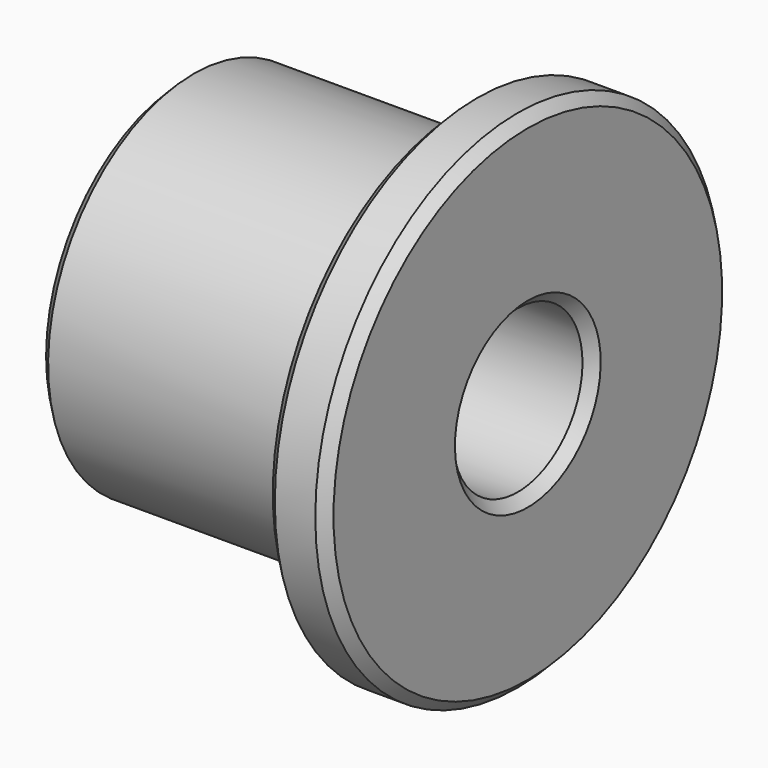
from build123d import *

# Parameters (mm, degrees)
F1_SIZE = 0.5


with BuildPart() as f2:
    # F0 (on Front) → F2 (revolve)
    with BuildSketch(Plane.XZ):
        Polygon((-9, 9), (-9, 6), (0, 6), (0, 4), (8, 4), (8, 12.5), (5, 12.5), (5, 9), align=None)
    revolve(axis=Axis((0.124688, 0, 0), (1, 0, 0)))

    # F1
    f1_edges = [f2.edges().sort_by_distance(p)[0] for p in [
        (-9, 0, -6),
        (-9, 0, -9),
        (5, 0, -12.5),
        (8, 0, -12.5),
        (8, 0, -4),
    ]]
    chamfer(f1_edges, length=F1_SIZE)


solid = f2.part
